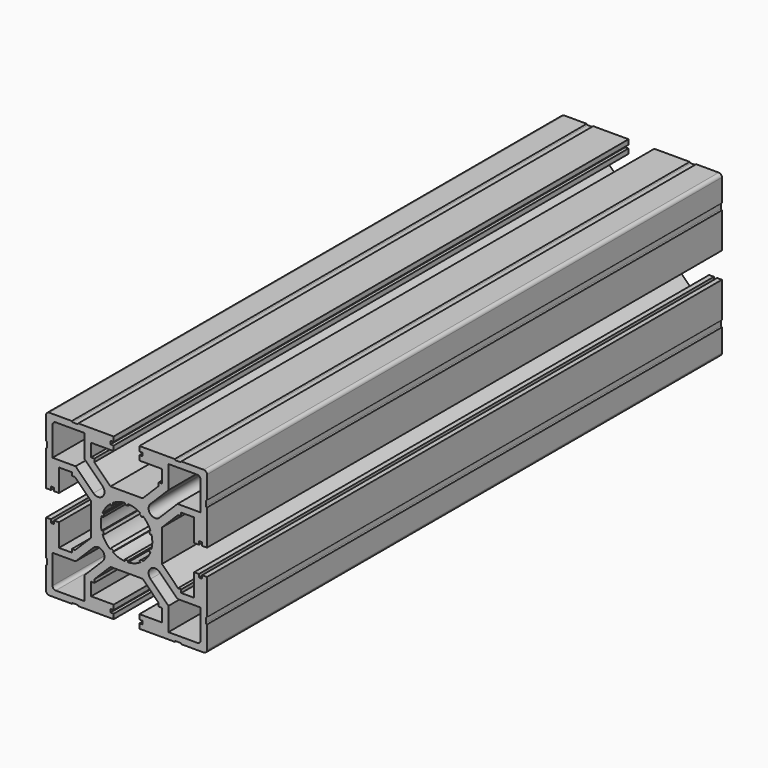
from build123d import *

# Parameters (mm, degrees)
SKETCH_W              = 50
SKETCH_H              = 50
PAD_DEPTH             = 100
POCKET_DEPTH          = 524.265069
POCKET_DEPTH_BACK     = 524.265069
POLARPATTERN_COUNT    = 4
POCKET001_DEPTH       = 524.265069
POCKET001_DEPTH_BACK  = 524.265069
POLARPATTERN001_COUNT = 4
SKETCH003_R           = 8
POCKET002_DEPTH       = 100.001
POCKET002_DEPTH_BACK  = 100.001
SKETCH004_W           = 1
SKETCH004_H           = 1
PAD001_DEPTH          = 100
POLARPATTERN002_COUNT = 10
FILLET_R              = 1
POCKET003_DEPTH       = 524.265069
POCKET003_DEPTH_BACK  = 524.265069
POLARPATTERN003_COUNT = 4


with BuildPart() as part:
    # Sketch → Pad (new body, symmetric)
    with BuildSketch(Plane.XZ):
        Rectangle(SKETCH_W, SKETCH_H)
    extrude(amount=PAD_DEPTH, both=True)

    # Sketch001 → Pocket (cut, two sides)
    with BuildSketch(Plane.XZ) as pocket_sk:
        Polygon((-4, 25), (4, 25), (4, 23.5), (5, 23.5), (5, 22.5), (4, 22.5), (4, 21), (11, 21), (11, 17), (10, 17), (10, 16), (5, 11), (-5, 11), (-10, 16), (-10, 17), (-11, 17), (-11, 21), (-4, 21), (-4, 22.5), (-5, 22.5), (-5, 23.5), (-4, 23.5), align=None)
    pocket = extrude(amount=-POCKET_DEPTH, mode=Mode.SUBTRACT) + extrude(pocket_sk.sketch, amount=POCKET_DEPTH_BACK, mode=Mode.SUBTRACT)

    # PolarPattern: Pocket ×4 about axis
    polarpattern_axis = Axis((0, 0, 0), (0, -1, 0))
    for i in range(1, POLARPATTERN_COUNT):
        add(pocket.rotate(polarpattern_axis, i * 360 / POLARPATTERN_COUNT), mode=Mode.SUBTRACT)

    # Sketch002 → Pocket001 (cut, two sides)
    with BuildSketch(Plane.XZ) as pocket001_sk:
        with BuildLine():
            ThreePointArc((-10.27208, 7.443653), (-7.443653, 7.443649), (-7.443649, 10.272076))
            Line((-13, 15.828443), (-7.443649, 10.272076))
            Line((-13, 23), (-13, 15.828443))
            Line((-23, 23), (-13, 23))
            Line((-23, 23), (-23, 13))
            Line((-23, 13), (-15.828411, 13))
            Line((-15.828411, 13), (-10.27208, 7.443653))
        make_face()
    pocket001 = extrude(amount=-POCKET001_DEPTH, mode=Mode.SUBTRACT) + extrude(pocket001_sk.sketch, amount=POCKET001_DEPTH_BACK, mode=Mode.SUBTRACT)

    # PolarPattern001: Pocket001 ×4 about axis
    polarpattern001_axis = Axis((0, 0, 0), (0, -1, 0))
    for i in range(1, POLARPATTERN001_COUNT):
        add(pocket001.rotate(polarpattern001_axis, i * 360 / POLARPATTERN001_COUNT), mode=Mode.SUBTRACT)

    # Sketch003 → Pocket002 (cut, two sides)
    with BuildSketch(Plane.XZ) as pocket002_sk:
        Circle(SKETCH003_R)
    extrude(amount=-POCKET002_DEPTH, mode=Mode.SUBTRACT)
    extrude(pocket002_sk.sketch, amount=POCKET002_DEPTH_BACK, mode=Mode.SUBTRACT)

    # Sketch004 → Pad001 (join, symmetric)
    with BuildSketch(Plane.XZ):
        with Locations((0, 8)):
            Rectangle(SKETCH004_W, SKETCH004_H)
    pad001 = extrude(amount=PAD001_DEPTH, both=True)

    # PolarPattern002: Pad001 ×10 about axis
    polarpattern002_axis = Axis((0, 0, 0), (0, 1, 0))
    for i in range(1, POLARPATTERN002_COUNT):
        add(pad001.rotate(polarpattern002_axis, i * 360 / POLARPATTERN002_COUNT))

    # Fillet
    fillet_edges = [part.edges().sort_by_distance(p)[0] for p in [
        (-23, 0, 23),
        (-25, 0, 25),
        (-23, 0, -23),
        (-25, 0, -25),
        (23, 0, -23),
        (25, 0, -25),
        (23, 0, 23),
        (25, 0, 25),
    ]]
    fillet(fillet_edges, radius=FILLET_R)

    # Sketch005 → Pocket003 (cut, two sides)
    with BuildSketch(Plane.XZ) as pocket003_sk:
        with BuildLine():
            Line((-17, 27), (-15, 27))
            Line((-15, 27), (-15, 25))
            ThreePointArc((-15.281926, 24.718074), (-15.082574, 24.800648), (-15, 25))
            Line((-15.281926, 24.718074), (-16.718074, 24.718074))
            ThreePointArc((-17, 25), (-16.917426, 24.800648), (-16.718074, 24.718074))
            Line((-17, 25), (-17, 27))
        make_face()
        with BuildLine():
            Line((15, 27), (17, 27))
            Line((17, 27), (17, 25))
            ThreePointArc((16.718074, 24.718074), (16.917426, 24.800648), (17, 25))
            Line((16.718074, 24.718074), (15.281926, 24.718074))
            ThreePointArc((15, 25), (15.082574, 24.800648), (15.281926, 24.718074))
            Line((15, 25), (15, 27))
        make_face()
    pocket003 = extrude(amount=-POCKET003_DEPTH, mode=Mode.SUBTRACT) + extrude(pocket003_sk.sketch, amount=POCKET003_DEPTH_BACK, mode=Mode.SUBTRACT)

    # PolarPattern003: Pocket003 ×4 about axis
    polarpattern003_axis = Axis((0, 0, 0), (0, 1, 0))
    for i in range(1, POLARPATTERN003_COUNT):
        add(pocket003.rotate(polarpattern003_axis, i * 360 / POLARPATTERN003_COUNT), mode=Mode.SUBTRACT)


solid = part.part
